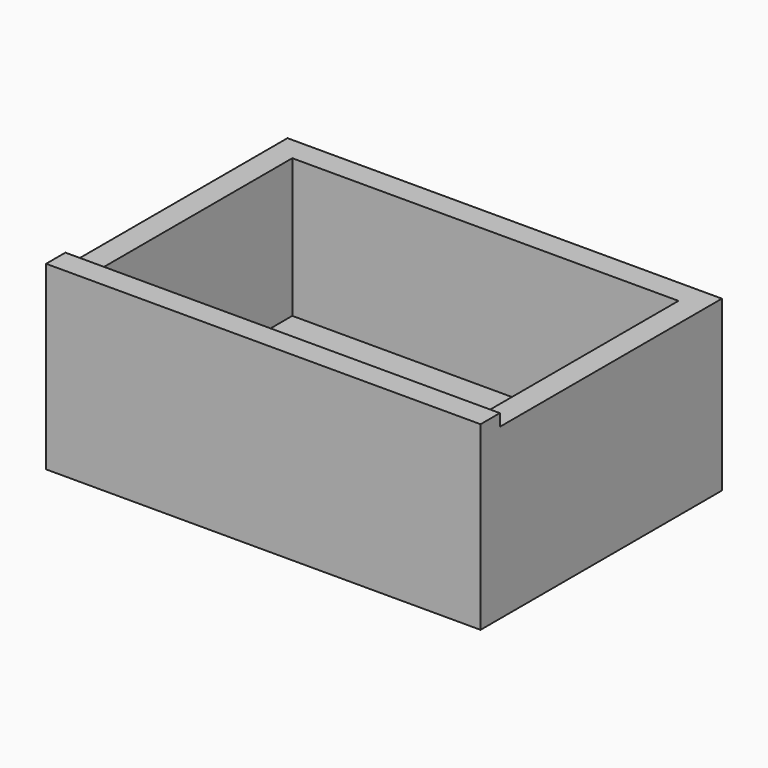
from build123d import *

# Parameters (mm, degrees)
F0_W     = 20
F0_H     = 20
F0_W_2   = 320
F1_DEPTH = 150
F0_H_2   = 210
F2_DEPTH = 140
F3_DEPTH = 25


with BuildPart() as f1:
    # F0 (on Top) → F1 (new body)
    with BuildSketch(Plane.XY):
        with Locations((-170, -115)):
            Rectangle(F0_W, F0_H)
        with Locations((0, -115)):
            Rectangle(F0_W_2, F0_H)
        with Locations((170, -115)):
            Rectangle(F0_W, F0_H)
    extrude(amount=F1_DEPTH)

    # F0 (on Top) → F2 (join)
    with BuildSketch(Plane.XY):
        with Locations((-170, 0)):
            Rectangle(F0_W, F0_H_2)
        with Locations((-170, 115)):
            Rectangle(F0_W, F0_H)
        with Locations((0, 115)):
            Rectangle(F0_W_2, F0_H)
        with Locations((170, 115)):
            Rectangle(F0_W, F0_H)
        with Locations((170, 0)):
            Rectangle(F0_W, F0_H_2)
    extrude(amount=F2_DEPTH)

    # F0 (on Top) → F3 (join)
    with BuildSketch(Plane.XY):
        Rectangle(F0_W_2, F0_H_2)
    extrude(amount=F3_DEPTH)


solid = f1.part
